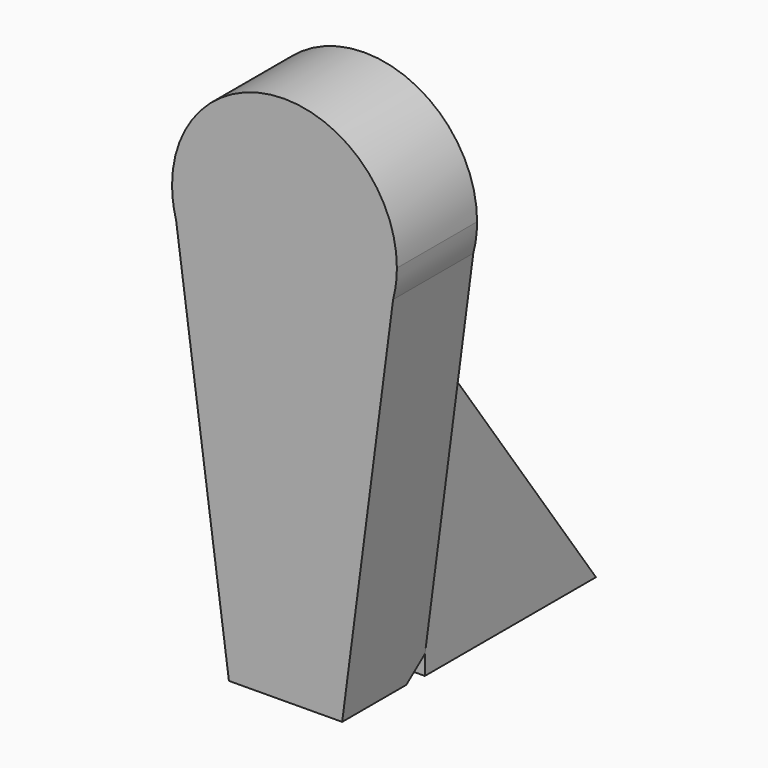
from build123d import *

# Parameters (mm, degrees)
F1_DEPTH = 25.4
F2_SIZE  = 5.08
F4_DEPTH = 15.24
F6_DEPTH = 15.24


with BuildPart() as f1:
    # F0 (on Front) → F1 (new body)
    with BuildSketch(Plane.XZ):
        with BuildLine():
            Line((27.518749, 22.430017), (28.481669, 29.77331))
            ThreePointArc((28.481669, 29.77331), (0, 58.254979), (-28.481669, 29.77331))
            Line((-28.481669, 29.77331), (-27.446961, 22.166089))
            ThreePointArc((-27.446961, 22.166089), (0.136758, 1.291969), (27.518749, 22.430017))
        make_face()
        with BuildLine():
            ThreePointArc((27.518749, 22.430017), (28.239913, 26.070231), (28.481669, 29.77331))
            Line((28.481669, 29.77331), (27.518749, 22.430017))
        make_face()
        with BuildLine():
            Line((-27.446961, 22.166089), (-28.481669, 29.77331))
            ThreePointArc((-28.481669, 29.77331), (-28.221807, 25.934676), (-27.446961, 22.166089))
        make_face()
        with BuildLine():
            Line((14.615998, -75.967178), (27.518749, 22.430017))
            ThreePointArc((27.518749, 22.430017), (0.136758, 1.291969), (-27.446961, 22.166089))
            Line((-27.446961, 22.166089), (-14.074668, -76.147616))
            Line((-14.074668, -76.147616), (14.615998, -75.967178))
        make_face()
    extrude(amount=F1_DEPTH)

    # F2
    f2_edges = [f1.edges().sort_by_distance(p)[0] for p in [
        (0.270665, 0, -76.057397),
    ]]
    chamfer(f2_edges, length=F2_SIZE)

    # F3 (on Right) → F4 (join)
    with BuildSketch(Plane.YZ):
        Polygon((54.190729, -75.843684), (0, 0), (0, -75.843684), align=None)
    extrude(amount=F4_DEPTH)

    # F5 (on Right) → F6 (join)
    with BuildSketch(Plane.YZ):
        Polygon((53.829387, -75.629257), (0, 0), (0, -75.629257), align=None)
    extrude(amount=-F6_DEPTH)


solid = f1.part
